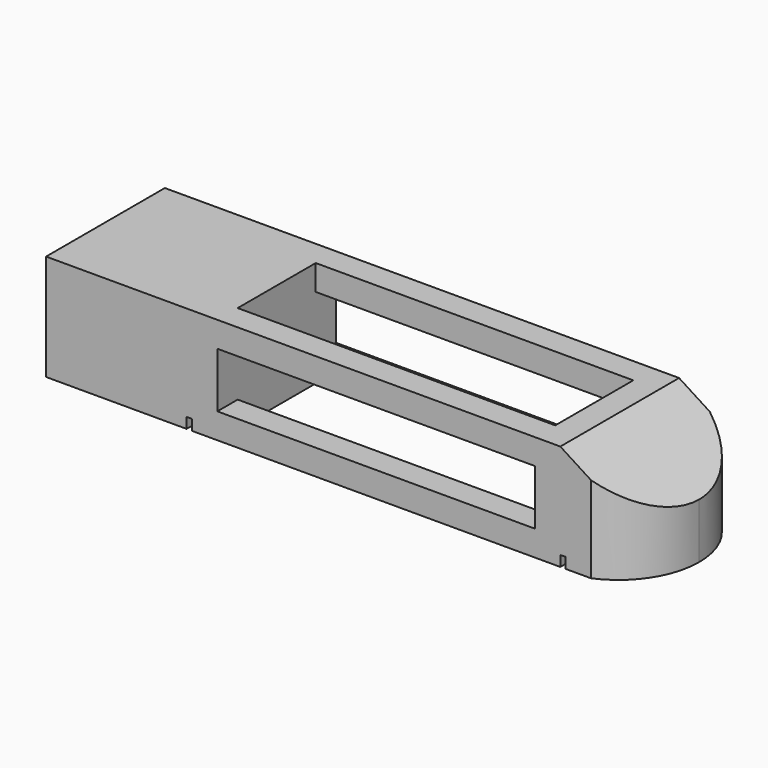
from build123d import *

# Parameters (mm, degrees)
F0_W      = 177.8
F0_H      = 44.45
F1_DEPTH  = 31.75
F2_W      = 1.5875
F2_H      = 44.45
F3_DEPTH  = 3.175
F4_W      = 95.09125
F4_H      = 29.21
F5_DEPTH  = 31.751
F6_W      = 95.09125
F6_H      = 16.51
F7_DEPTH  = 44.451
F9_DEPTH  = 31.751
F11_DEPTH = 44.451


with BuildPart() as f1:
    # F0 (on Top) → F1 (new body)
    with BuildSketch(Plane.XY):
        with Locations((-88.9, -22.225)):
            Rectangle(F0_W, F0_H)
    extrude(amount=F1_DEPTH)

    # F2 (on face) → F3 (cut)
    with BuildSketch(Plane(origin=(0, 0, 0), x_dir=(1, 0, 0), z_dir=(0, 0, -1))):
        with Locations((-23.01875, 22.225)):
            Rectangle(F2_W, F2_H)
        with Locations((-134.9375, 22.225)):
            Rectangle(F2_W, F2_H)
    extrude(amount=-F3_DEPTH, mode=Mode.SUBTRACT)

    # F4 (on face) → F5 (cut, through all)
    with BuildSketch(Plane.XY.offset(31.75)):
        with Locations((-78.978125, -22.225)):
            Rectangle(F4_W, F4_H)
    extrude(amount=-F5_DEPTH, mode=Mode.SUBTRACT)

    # F6 (on face) → F7 (cut, through all)
    with BuildSketch(Plane.XZ.offset(44.45)):
        with Locations((-78.978125, 15.875)):
            Rectangle(F6_W, F6_H)
    extrude(amount=-F7_DEPTH, mode=Mode.SUBTRACT)

    # F8 (on face) → F9 (cut, through all)
    with BuildSketch(Plane.XY.offset(31.75)):
        with BuildLine():
            ThreePointArc((-14.605, 0), (-3.978035, -8.927851), (0, -22.225))
            Line((0, -22.225), (0, 0))
            Line((0, 0), (-14.605, 0))
        make_face()
        with BuildLine():
            ThreePointArc((0, -22.225), (-3.978035, -35.522149), (-14.605, -44.45))
            Line((-14.605, -44.45), (0, -44.45))
            Line((0, -44.45), (0, -22.225))
        make_face()
    extrude(amount=-F9_DEPTH, mode=Mode.SUBTRACT)

    # F10 (on face) → F11 (cut, through all)
    with BuildSketch(Plane(origin=(0, 0, 0), x_dir=(-1, 0, 0), z_dir=(0, 1, 0))):
        Polygon((0, 16.51), (23.8125, 31.75), (0, 31.75), align=None)
    extrude(amount=-F11_DEPTH, mode=Mode.SUBTRACT)


solid = f1.part
